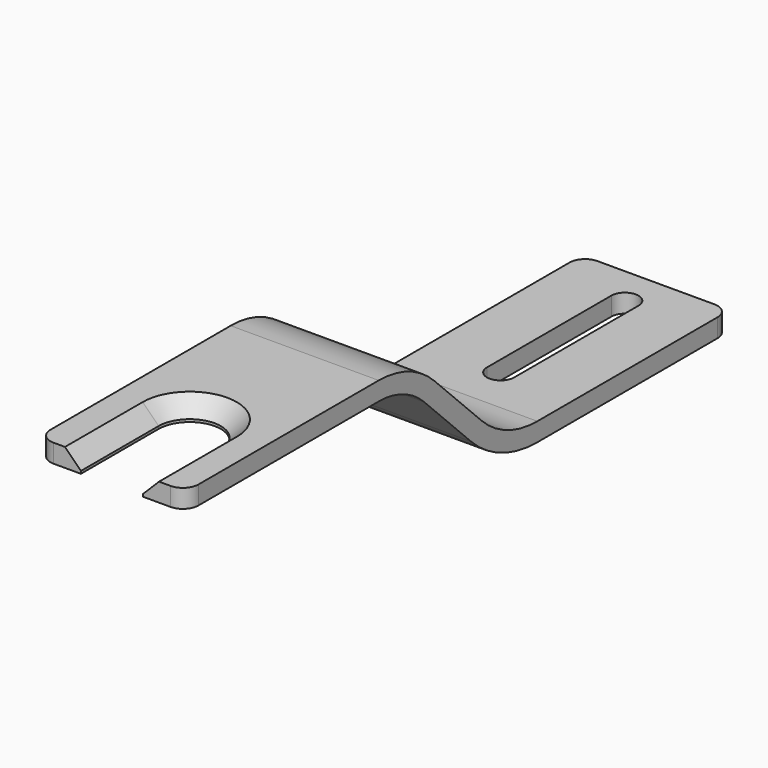
from build123d import *

# Parameters (mm, degrees)
SKETCH003_W     = 38.1
SKETCH003_H     = 4.7625
POCKET007_DEPTH = 34.7635
CHAMFER_SIZE    = 4.1
POCKET008_DEPTH = 34.7635
FILLET_R        = 4


with BuildPart() as part:
    # AdditivePipe: sweep along a path in Sketch015
    with BuildLine(Plane.YZ) as additivepipe_path:
        Line((0, 0), (61.978976, 0))
        ThreePointArc((61.978976, 0), (71.699135, -1.93346), (79.939488, -7.439488))
        Line((79.939488, -7.439488), (95.060512, -22.560512))
        ThreePointArc((95.060512, -22.560512), (103.300865, -28.06654), (113.021024, -30))
        Line((113.021024, -30), (175, -30))
    # Sketch003 → AdditivePipe (sweep)
    with BuildSketch(Plane.XZ):
        with Locations((0, -2.38125)):
            Rectangle(SKETCH003_W, SKETCH003_H)
    sweep(path=additivepipe_path.line, is_frenet=True)

    # Sketch016 → Pocket007 (cut, through all)
    with BuildSketch(Plane.XY):
        with BuildLine():
            ThreePointArc((-8, 0), (0, -8), (8, 0))
            Line((8, 0), (8, 25))
            ThreePointArc((8, 25), (0, 33), (-8, 25))
            Line((-8, 0), (-8, 25))
        make_face()
    extrude(amount=-POCKET007_DEPTH, mode=Mode.SUBTRACT)

    # Chamfer
    chamfer_edges = [part.edges().sort_by_distance(p)[0] for p in [
        (-8, 12.5, 0),
        (0, 33, 0),
        (8, 12.5, 0),
    ]]
    chamfer(chamfer_edges, length=CHAMFER_SIZE)

    # Sketch017 → Pocket008 (cut, through all)
    with BuildSketch(Plane.XY):
        with BuildLine():
            ThreePointArc((-3.5, 125), (0, 121.5), (3.5, 125))
            Line((3.5, 125), (3.5, 165))
            ThreePointArc((3.5, 165), (0, 168.5), (-3.5, 165))
            Line((-3.5, 125), (-3.5, 165))
        make_face()
    extrude(amount=-POCKET008_DEPTH, mode=Mode.SUBTRACT)

    # Fillet
    fillet_edges = [part.edges().sort_by_distance(p)[0] for p in [
        (-19.05, 0, -2.38125),
        (19.05, 0, -2.38125),
        (-19.05, 175, -32.38125),
        (19.05, 175, -32.38125),
    ]]
    fillet(fillet_edges, radius=FILLET_R)


solid = part.part
